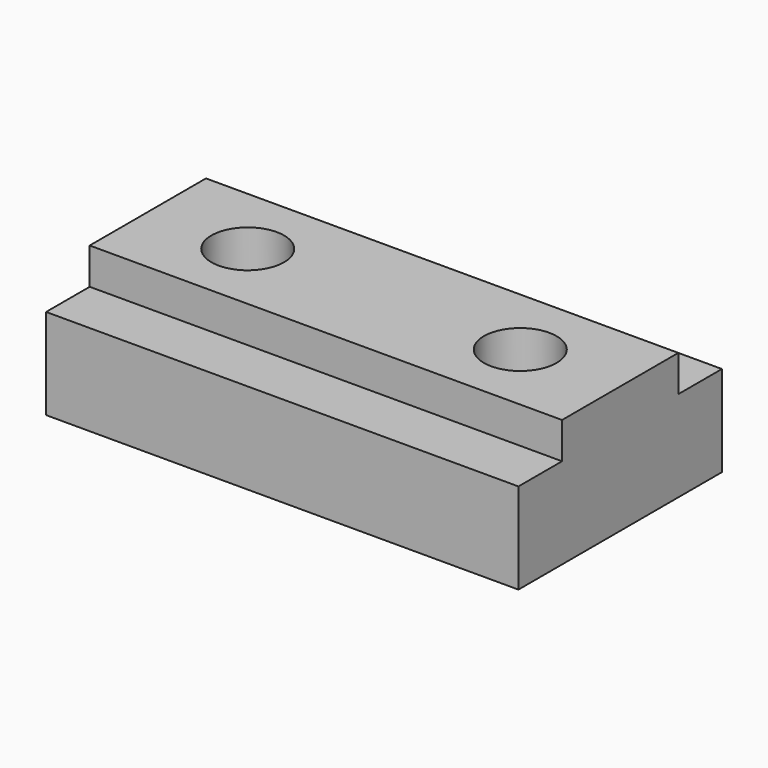
from build123d import *

# Parameters (mm, degrees)
F1_DEPTH = 165.1
F3_DEPTH = 44.45


with BuildPart() as f1:
    # F0 (on Right) → F1 (new body)
    with BuildSketch(Plane.YZ):
        Polygon((-19.05, 0), (0, 0), (69.85, 0), (69.85, 31.75), (50.8, 31.75), (50.8, 44.45), (0, 44.45), (0, 31.75), (-19.05, 31.75), align=None)
    extrude(amount=F1_DEPTH)

    # F2 (on face) → F3 (cut, through all)
    with BuildSketch(Plane.XY.offset(44.45)):
        with BuildLine():
            Line((34.925, 25.4), (22.225, 25.4))
            ThreePointArc((22.225, 25.4), (34.925, 12.7), (47.625, 25.4))
            Line((47.625, 25.4), (34.925, 25.4))
        make_face()
        with BuildLine():
            ThreePointArc((142.875, 25.4), (130.175, 38.1), (117.475, 25.4))
            Line((117.475, 25.4), (130.175, 25.4))
            Line((130.175, 25.4), (142.875, 25.4))
        make_face()
        with BuildLine():
            Line((130.175, 25.4), (117.475, 25.4))
            ThreePointArc((117.475, 25.4), (130.175, 12.7), (142.875, 25.4))
            Line((142.875, 25.4), (130.175, 25.4))
        make_face()
        with BuildLine():
            ThreePointArc((47.625, 25.4), (34.925, 38.1), (22.225, 25.4))
            Line((22.225, 25.4), (34.925, 25.4))
            Line((34.925, 25.4), (47.625, 25.4))
        make_face()
    extrude(amount=-F3_DEPTH, mode=Mode.SUBTRACT)


solid = f1.part
